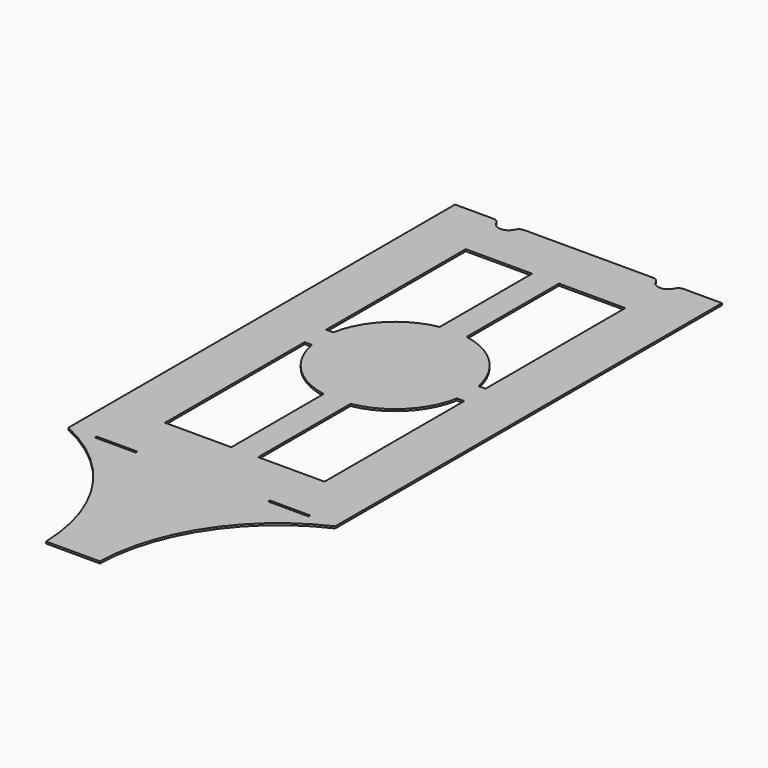
from build123d import *

# Parameters (mm, degrees)
F1_DEPTH = 1.8288


with BuildPart() as f1:
    # F0 (on Top) → F1 (new body)
    with BuildSketch(Plane.XY):
        with BuildLine():
            Line((-89.987678, 304.8), (-126.238, 304.8))
            Line((-126.238, 304.8), (-126.238, -152.4))
            Line((-126.238, -152.4), (-100.9396, -152.4))
            Line((-100.9396, -152.4), (-100.9396, -150.368))
            Line((-100.9396, -150.368), (-62.6364, -150.368))
            Line((-62.6364, -150.368), (-62.6364, -152.4))
            Line((-62.6364, -152.4), (62.6364, -152.4))
            Line((62.6364, -152.4), (62.6364, -150.368))
            Line((62.6364, -150.368), (100.9396, -150.368))
            Line((100.9396, -150.368), (100.9396, -152.4))
            Line((100.9396, -152.4), (126.238, -152.4))
            Line((126.238, -152.4), (126.238, 304.8))
            Line((126.238, 304.8), (89.987678, 304.8))
            ThreePointArc((89.987678, 304.8), (86.50964, 303.762791), (84.167807, 300.99))
            ThreePointArc((84.167807, 300.99), (75.438, 295.275), (66.708193, 300.99))
            ThreePointArc((66.708193, 300.99), (64.36636, 303.762791), (60.888322, 304.8))
            Line((60.888322, 304.8), (-60.888322, 304.8))
            ThreePointArc((-60.888322, 304.8), (-64.36636, 303.762791), (-66.708193, 300.99))
            ThreePointArc((-66.708193, 300.99), (-75.438, 295.275), (-84.167807, 300.99))
            ThreePointArc((-84.167807, 300.99), (-86.50964, 303.762791), (-89.987678, 304.8))
        make_face()
        with BuildLine():
            Line((-12.7, -101.6), (-75.438, -101.6))
            Line((-75.438, -101.6), (-75.438, 63.5))
            Line((-75.438, 63.5), (-68.685752, 63.5))
            ThreePointArc((-68.685752, 63.5), (-49.391409, 26.808591), (-12.7, 7.514248))
            Line((-12.7, 7.514248), (-12.7, -101.6))
        make_face(mode=Mode.SUBTRACT)
        with BuildLine():
            Line((12.7, -101.6), (12.7, 7.514248))
            ThreePointArc((12.7, 7.514248), (49.391409, 26.808591), (68.685752, 63.5))
            Line((68.685752, 63.5), (75.438, 63.5))
            Line((75.438, 63.5), (75.438, -101.6))
            Line((75.438, -101.6), (12.7, -101.6))
        make_face(mode=Mode.SUBTRACT)
        with BuildLine():
            Line((-75.438, 88.9), (-75.438, 254))
            Line((-75.438, 254), (-12.7, 254))
            Line((-12.7, 254), (-12.7, 144.885752))
            ThreePointArc((-12.7, 144.885752), (-49.391409, 125.591409), (-68.685752, 88.9))
            Line((-68.685752, 88.9), (-75.438, 88.9))
        make_face(mode=Mode.SUBTRACT)
        with BuildLine():
            Line((12.7, 254), (75.438, 254))
            Line((75.438, 254), (75.438, 88.9))
            Line((75.438, 88.9), (68.685752, 88.9))
            ThreePointArc((68.685752, 88.9), (49.391409, 125.591409), (12.7, 144.885752))
            Line((12.7, 144.885752), (12.7, 254))
        make_face(mode=Mode.SUBTRACT)
        with BuildLine():
            Line((-100.9396, -152.4), (-126.238, -152.4))
            ThreePointArc((-126.238, -152.4), (-54.046349, -214.193762), (-25.4, -304.8))
            Line((-25.4, -304.8), (25.4, -304.8))
            ThreePointArc((25.4, -304.8), (54.046349, -214.193762), (126.238, -152.4))
            Line((126.238, -152.4), (100.9396, -152.4))
            Line((100.9396, -152.4), (62.6364, -152.4))
            Line((62.6364, -152.4), (-62.6364, -152.4))
            Line((-62.6364, -152.4), (-100.9396, -152.4))
        make_face()
    extrude(amount=F1_DEPTH)


solid = f1.part
